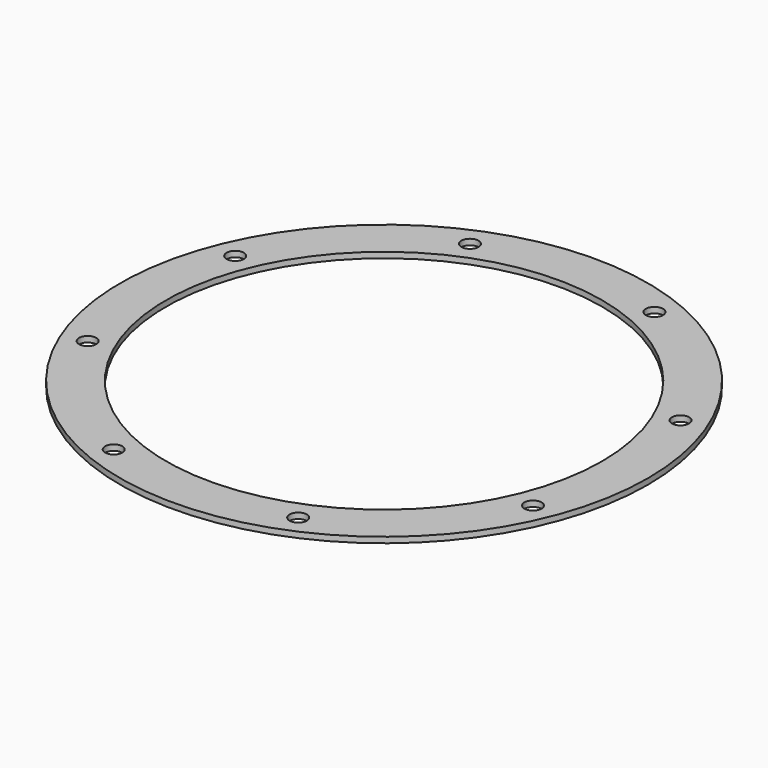
from build123d import *

# Parameters (mm, degrees)
CYLINDER323_R               = 1.5
CYLINDER323_DEPTH           = 30
CYLINDER323_PLACEMENT_ANGLE = 67.5
CYLINDER324_R               = 1.5
CYLINDER324_DEPTH           = 30
CYLINDER324_PLACEMENT_ANGLE = 112.5
CYLINDER011_R               = 1.5
CYLINDER011_DEPTH           = 30
CYLINDER011_PLACEMENT_ANGLE = 157.5
CYLINDER012_R               = 1.5
CYLINDER012_DEPTH           = 30
CYLINDER012_PLACEMENT_ANGLE = 202.5
CYLINDER013_R               = 1.5
CYLINDER013_DEPTH           = 30
CYLINDER013_PLACEMENT_ANGLE = 112.500002
CYLINDER014_R               = 1.5
CYLINDER014_DEPTH           = 30
CYLINDER014_PLACEMENT_ANGLE = 67.5
CYLINDER015_R               = 1.5
CYLINDER015_DEPTH           = 30
CYLINDER015_PLACEMENT_ANGLE = 22.5
CYLINDER325_R               = 1.5
CYLINDER325_DEPTH           = 30
CYLINDER325_PLACEMENT_ANGLE = 22.5
TUBE004_R                   = 46
TUBE004_R_2                 = 38
TUBE004_DEPTH               = 1


with BuildPart() as obj1:
    # Cylinder323 → Cylinder323 (new body)
    with BuildSketch(Plane.XY):
        Circle(CYLINDER323_R)
    extrude(amount=CYLINDER323_DEPTH)


with BuildPart() as obj1_1:
    # Cylinder323 placement: moved
    add(obj1.part.moved(Location((-16.072704, -38.80294, 40))).rotate(Axis((-16.072704, -38.80294, 40), (0, 0, 1)), CYLINDER323_PLACEMENT_ANGLE))


with BuildPart() as obj2:
    # Cylinder324 → Cylinder324 (new body)
    with BuildSketch(Plane.XY):
        Circle(CYLINDER324_R)
    extrude(amount=CYLINDER324_DEPTH)


with BuildPart() as obj2_1:
    # Cylinder324 placement: moved
    add(obj2.part.moved(Location((16.072704, -38.80294, 40))).rotate(Axis((16.072704, -38.80294, 40), (0, 0, 1)), CYLINDER324_PLACEMENT_ANGLE))


with BuildPart() as obj3:
    # Cylinder011 → Cylinder011 (new body)
    with BuildSketch(Plane.XY):
        Circle(CYLINDER011_R)
    extrude(amount=CYLINDER011_DEPTH)


with BuildPart() as obj3_1:
    # Cylinder011 placement: moved
    add(obj3.part.moved(Location((38.80294, -16.072704, 40))).rotate(Axis((38.80294, -16.072704, 40), (0, 0, 1)), CYLINDER011_PLACEMENT_ANGLE))


with BuildPart() as obj4:
    # Cylinder012 → Cylinder012 (new body)
    with BuildSketch(Plane.XY):
        Circle(CYLINDER012_R)
    extrude(amount=CYLINDER012_DEPTH)


with BuildPart() as obj4_1:
    # Cylinder012 placement: moved
    add(obj4.part.moved(Location((38.80294, 16.072704, 40))).rotate(Axis((38.80294, 16.072704, 40), (0, 0, 1)), CYLINDER012_PLACEMENT_ANGLE))


with BuildPart() as obj5:
    # Cylinder013 → Cylinder013 (new body)
    with BuildSketch(Plane.XY):
        Circle(CYLINDER013_R)
    extrude(amount=CYLINDER013_DEPTH)


with BuildPart() as obj5_1:
    # Cylinder013 placement: moved
    add(obj5.part.moved(Location((16.072704, 38.80294, 40))).rotate(Axis((16.072704, 38.80294, 40), (0, 0, -1)), CYLINDER013_PLACEMENT_ANGLE))


with BuildPart() as obj6:
    # Cylinder014 → Cylinder014 (new body)
    with BuildSketch(Plane.XY):
        Circle(CYLINDER014_R)
    extrude(amount=CYLINDER014_DEPTH)


with BuildPart() as obj6_1:
    # Cylinder014 placement: moved
    add(obj6.part.moved(Location((-16.072704, 38.80294, 40))).rotate(Axis((-16.072704, 38.80294, 40), (0, 0, -1)), CYLINDER014_PLACEMENT_ANGLE))


with BuildPart() as obj7:
    # Cylinder015 → Cylinder015 (new body)
    with BuildSketch(Plane.XY):
        Circle(CYLINDER015_R)
    extrude(amount=CYLINDER015_DEPTH)


with BuildPart() as obj7_1:
    # Cylinder015 placement: moved
    add(obj7.part.moved(Location((-38.80294, 16.072704, 40))).rotate(Axis((-38.80294, 16.072704, 40), (0, 0, -1)), CYLINDER015_PLACEMENT_ANGLE))


with BuildPart() as compound249:
    # Cylinder325 → Cylinder325 (new body)
    with BuildSketch(Plane.XY):
        Circle(CYLINDER325_R)
    extrude(amount=CYLINDER325_DEPTH)


with BuildPart() as compound249_1:
    # Cylinder325 placement: moved
    add(compound249.part.moved(Location((-38.80294, -16.072704, 40))).rotate(Axis((-38.80294, -16.072704, 40), (0, 0, 1)), CYLINDER325_PLACEMENT_ANGLE))

    # Compound249: union obj1, obj2, obj3, obj4, obj5, obj6, obj7
    add(obj1_1.part)
    add(obj2_1.part)
    add(obj3_1.part)
    add(obj4_1.part)
    add(obj5_1.part)
    add(obj6_1.part)
    add(obj7_1.part)


with BuildPart() as obj8:
    # Tube004 → Tube004 (new body)
    with BuildSketch(Plane.XY.offset(50)):
        Circle(TUBE004_R)
        Circle(TUBE004_R_2, mode=Mode.SUBTRACT)
    extrude(amount=TUBE004_DEPTH)

    # Cut011: cut Compound249
    add(compound249_1.part, mode=Mode.SUBTRACT)


with BuildPart() as obj8_1:
    # Cut011 placement: moved
    add(obj8.part.moved(Location((0, 0, -61))))


solid = obj8_1.part
